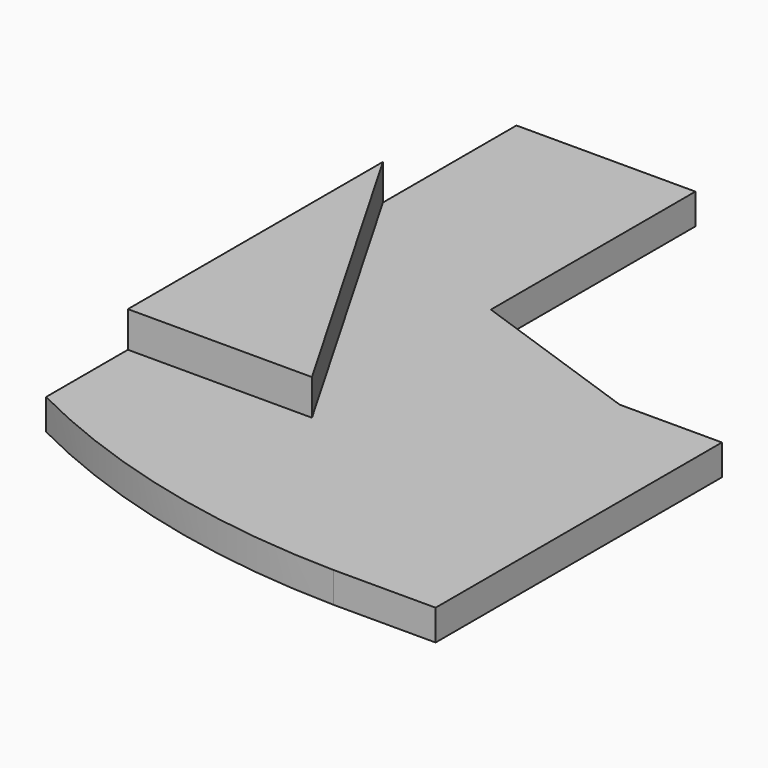
from build123d import *

# Parameters (mm, degrees)
F1_DEPTH = 3
F3_DEPTH = 3.5


with BuildPart() as f1:
    # F0 (on Top) → F1 (new body)
    with BuildSketch(Plane.XY):
        with BuildLine():
            Line((-17.5, 31.131839), (-35, 31.131839))
            Line((-35, 31.131839), (-35, -26.368161))
            ThreePointArc((-35, -26.368161), (-17.99253, -32.681168), (0, -35))
            Line((0, -35), (10, -35))
            Line((10, -35), (10, 0))
            Line((10, 0), (0, 0))
            Line((0, 0), (-17.5, 6.131839))
            Line((-17.5, 6.131839), (-17.5, 31.131839))
        make_face()
    extrude(amount=F1_DEPTH)

    # F2 (on face) → F3 (join)
    with BuildSketch(Plane.XY.offset(3)):
        Polygon((-35, 14.808754), (-35, -16.368161), (-17, -16.368161), align=None)
    extrude(amount=F3_DEPTH)


solid = f1.part
